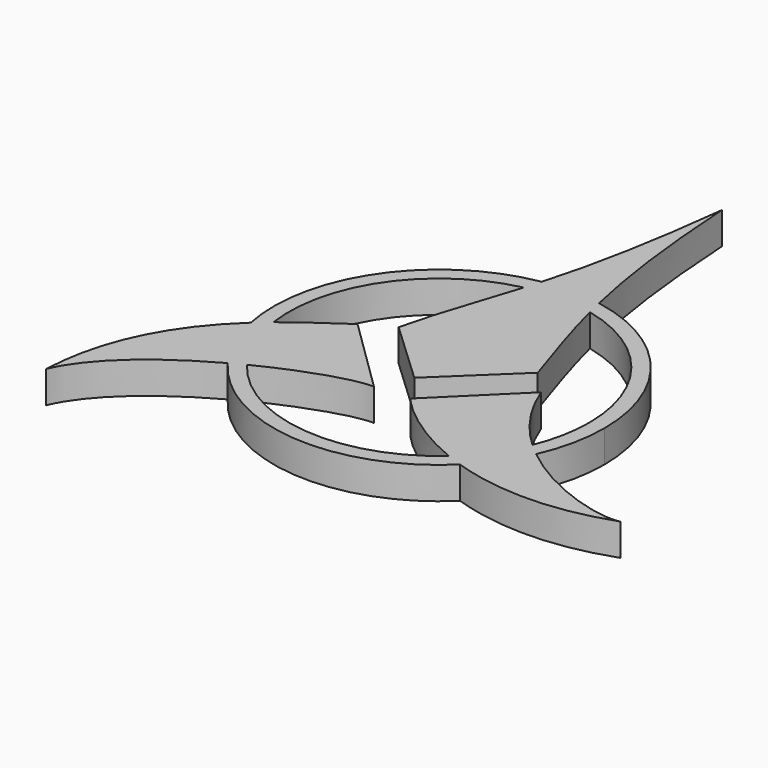
from build123d import *

# Parameters (mm, degrees)
F1_DEPTH = 3
F2_SCALE = 2


with BuildPart() as f1:
    # F0 (on Top) → F1 (new body)
    with BuildSketch(Plane.XY):
        with BuildLine():
            ThreePointArc((-3.6484416958, 6.7781442245), (-0.540102633, 7.112214953), (2.5653010723, 6.7518778775))
            add(Edge.make_bspline(
                [(2.5653010723, 6.7518778775), (2.4405091478, 7.2488244878), (2.3189009562, 7.7553249268), (2.2005963536, 8.274148071)],
                knots=[12.4056943241, 12.4056943241, 12.4056943241, 12.4056943241, 14.1938007186, 14.1938007186, 14.1938007186, 14.1938007186], degree=3))
            ThreePointArc((2.2005963536, 8.274148071), (-0.4961751675, 8.5289851847), (-3.1961088455, 8.3101776771))
            add(Edge.make_bspline(
                [(-3.6484416958, 6.7781442245), (-3.4978066969, 7.2717610823), (-3.3469022152, 7.7808952815), (-3.1961088455, 8.3101776771)],
                knots=[14.2624266232, 14.2624266232, 14.2624266232, 14.2624266232, 16.1331987756, 16.1331987756, 16.1331987756, 16.1331987756], degree=3))
        make_face()
        with BuildLine():
            ThreePointArc((-3.1961088455, 8.3101776771), (-0.4961751675, 8.5289851847), (2.2005963536, 8.274148071))
            add(Edge.make_bspline(
                [(2.2005963536, 8.274148071), (1.2143009025, 12.5995326758), (0.4576186117, 17.781396506), (0, 25.4241656512)],
                knots=[14.1938007186, 14.1938007186, 14.1938007186, 14.1938007186, 29.1010922635, 29.1010922635, 29.1010922635, 29.1010922635], degree=3))
            add(Edge.make_bspline(
                [(-3.1961088455, 8.3101776771), (-2.0720104128, 12.2557457925), (-0.9540865302, 17.3209589741), (0, 25.4241656512)],
                knots=[16.1331987756, 16.1331987756, 16.1331987756, 16.1331987756, 30.0789846465, 30.0789846465, 30.0789846465, 30.0789846465], degree=3))
        make_face()
        with BuildLine():
            Line((-0.9757319349, -9.3994913623), (5.582395941, -3.136479063))
            add(Edge.make_bspline(
                [(5.582395941, -3.136479063), (4.4501346343, 0.3162188108), (3.4310943356, 3.3041145), (2.5653010723, 6.7518778775)],
                knots=[0, 0, 0, 0, 12.4056943241, 12.4056943241, 12.4056943241, 12.4056943241], degree=3))
            ThreePointArc((2.5653010723, 6.7518778775), (-0.540102633, 7.112214953), (-3.6484416958, 6.7781442245))
            add(Edge.make_bspline(
                [(-6.8780463189, -3.8578731474), (-5.9296063176, 0.1535622041), (-4.796855529, 3.0148990823), (-3.6484416958, 6.7781442245)],
                knots=[0, 0, 0, 0, 14.2624266232, 14.2624266232, 14.2624266232, 14.2624266232], degree=3))
            Line((-6.8780463189, -3.8578731474), (-0.9757319349, -9.3994913623))
        make_face()
        with BuildLine():
            ThreePointArc((8.7334032679, -17.4966593213), (10.874330072, -15.112659319), (12.4205479871, -12.3061964651))
            add(Edge.make_bspline(
                [(7.7123986557, -5.3926892579), (8.770971261, -8.2077255601), (10.474686648, -10.4956895969), (12.4205479871, -12.3061964651)],
                knots=[0, 0, 0, 0, 6.2582268085, 6.2582268085, 6.2582268085, 6.2582268085], degree=3))
            Line((7.7123986557, -5.3926892579), (0.8955727099, -12.1167693287))
            add(Edge.make_bspline(
                [(8.7334032679, -17.4966593213), (3.9228667252, -15.5429771562), (1.0275686945, -12.5264607926), (0.8955727099, -12.1167693287)],
                knots=[11.5370076431, 11.5370076431, 11.5370076431, 11.5370076431, 24.8138712945, 24.8138712945, 24.8138712945, 24.8138712945], degree=3))
        make_face()
        with BuildLine():
            add(Edge.make_bspline(
                [(-9.5383450389, -5.3463163786), (-10.49262934, -6.0986866638), (-12.424326651, -7.2302096902), (-14.5301480871, -8.9681731566)],
                knots=[0, 0, 0, 0, 8.6245688787, 8.6245688787, 8.6245688787, 8.6245688787], degree=3))
            ThreePointArc((-14.5301480871, -8.9681731566), (-13.5897762425, -12.3786219909), (-11.8286564013, -15.4468327663))
            add(Edge.make_bspline(
                [(-2.396908123, -12.3486341909), (-4.0760677963, -12.2746317325), (-7.8959202891, -13.4562176242), (-11.8286564013, -15.4468327663)],
                knots=[0, 0, 0, 0, 11.0804983555, 11.0804983555, 11.0804983555, 11.0804983555], degree=3))
            Line((-2.396908123, -12.3486341909), (-9.5383450389, -5.3463163786))
        make_face()
        with BuildLine():
            ThreePointArc((-13.0971573758, -16.115640243), (-14.7653401615, -13.2317871414), (-15.7783337815, -10.05794303))
            add(Edge.make_bspline(
                [(-15.7783337815, -10.05794303), (-19.1516330423, -13.1800399874), (-22.5675085561, -17.9145012857), (-22.8937584907, -25.1475721598)],
                knots=[10.3095432401, 10.3095432401, 10.3095432401, 10.3095432401, 23.8842374586, 23.8842374586, 23.8842374586, 23.8842374586], degree=3))
            add(Edge.make_bspline(
                [(-13.0971573758, -16.115640243), (-17.3196146767, -18.4334452494), (-21.4212001528, -21.6282024638), (-22.8937584907, -25.1475721598)],
                knots=[12.270524405, 12.270524405, 12.270524405, 12.270524405, 24.1647199058, 24.1647199058, 24.1647199058, 24.1647199058], degree=3))
        make_face()
        with BuildLine():
            add(Edge.make_bspline(
                [(13.5447066819, -13.280008659), (18.0282893985, -16.8976229036), (23.3280453307, -18.2156300712), (25.0558890402, -17.7742708474)],
                knots=[7.4385845728, 7.4385845728, 7.4385845728, 7.4385845728, 21.309627434, 21.309627434, 21.309627434, 21.309627434], degree=3))
            ThreePointArc((13.5447066819, -13.280008659), (12.1098171156, -15.8191454606), (10.2244394305, -18.0443364074))
            add(Edge.make_bspline(
                [(25.0558890402, -17.7742708474), (19.2855148917, -19.8245200458), (14.2128845416, -19.3571511333), (10.2244394305, -18.0443364074)],
                knots=[0, 0, 0, 0, 10.216777361, 10.216777361, 10.216777361, 10.216777361], degree=3))
        make_face()
        with BuildLine():
            ThreePointArc((-11.8286564013, -15.4468327663), (-13.5897762425, -12.3786219909), (-14.5301480871, -8.9681731566))
            add(Edge.make_bspline(
                [(-14.5301480871, -8.9681731566), (-14.9415605507, -9.3077175354), (-15.3596191736, -9.6704091938), (-15.7783337815, -10.05794303)],
                knots=[8.6245688787, 8.6245688787, 8.6245688787, 8.6245688787, 10.3095432401, 10.3095432401, 10.3095432401, 10.3095432401], degree=3))
            ThreePointArc((-15.7783337815, -10.05794303), (-14.7653401615, -13.2317871414), (-13.0971573758, -16.115640243))
            add(Edge.make_bspline(
                [(-11.8286564013, -15.4468327663), (-12.251025348, -15.6606213341), (-12.6746963375, -15.8837415547), (-13.0971573758, -16.115640243)],
                knots=[11.0804983555, 11.0804983555, 11.0804983555, 11.0804983555, 12.270524405, 12.270524405, 12.270524405, 12.270524405], degree=3))
        make_face()
        with BuildLine():
            add(Edge.make_bspline(
                [(12.4205479871, -12.3061964651), (12.7875549062, -12.6476743158), (13.1631757671, -12.972167417), (13.5447066819, -13.280008659)],
                knots=[6.2582268085, 6.2582268085, 6.2582268085, 6.2582268085, 7.4385845728, 7.4385845728, 7.4385845728, 7.4385845728], degree=3))
            ThreePointArc((12.4205479871, -12.3061964651), (10.874330072, -15.112659319), (8.7334032679, -17.4966593213))
            add(Edge.make_bspline(
                [(10.2244394305, -18.0443364074), (9.7090454048, -17.8746921356), (9.2117553986, -17.6909303799), (8.7334032679, -17.4966593213)],
                knots=[10.216777361, 10.216777361, 10.216777361, 10.216777361, 11.5370076431, 11.5370076431, 11.5370076431, 11.5370076431], degree=3))
            ThreePointArc((10.2244394305, -18.0443364074), (12.1098171156, -15.8191454606), (13.5447066819, -13.280008659))
        make_face()
        with BuildLine():
            add(Edge.make_bspline(
                [(2.5653010723, 6.7518778775), (2.4405091478, 7.2488244878), (2.3189009562, 7.7553249268), (2.2005963536, 8.274148071)],
                knots=[12.4056943241, 12.4056943241, 12.4056943241, 12.4056943241, 14.1938007186, 14.1938007186, 14.1938007186, 14.1938007186], degree=3))
            ThreePointArc((2.5653010723, 6.7518778775), (10.4146880315, 1.7999595127), (13.4746808178, -6.9619361311))
            ThreePointArc((13.4746808178, -6.9619361311), (13.2086330433, -9.6855511251), (12.4205479871, -12.3061964651))
            add(Edge.make_bspline(
                [(12.4205479871, -12.3061964651), (12.7875549062, -12.6476743158), (13.1631757671, -12.972167417), (13.5447066819, -13.280008659)],
                knots=[6.2582268085, 6.2582268085, 6.2582268085, 6.2582268085, 7.4385845728, 7.4385845728, 7.4385845728, 7.4385845728], degree=3))
            ThreePointArc((13.5447066819, -13.280008659), (14.551187834, -10.1919652364), (14.8916705331, -6.9619361311))
            ThreePointArc((14.8916705331, -6.9619361311), (11.3032999692, 2.9527200107), (2.2005963536, 8.274148071))
        make_face()
        with BuildLine():
            ThreePointArc((-14.5301480871, -8.9681731566), (-12.1780939635, 1.0395420648), (-3.6484416958, 6.7781442245))
            add(Edge.make_bspline(
                [(-3.6484416958, 6.7781442245), (-3.4978066969, 7.2717610823), (-3.3469022152, 7.7808952815), (-3.1961088455, 8.3101776771)],
                knots=[14.2624266232, 14.2624266232, 14.2624266232, 14.2624266232, 16.1331987756, 16.1331987756, 16.1331987756, 16.1331987756], degree=3))
            ThreePointArc((-3.1961088455, 8.3101776771), (-13.3799265264, 1.7926335872), (-15.7783337815, -10.05794303))
            add(Edge.make_bspline(
                [(-14.5301480871, -8.9681731566), (-14.9415605507, -9.3077175354), (-15.3596191736, -9.6704091938), (-15.7783337815, -10.05794303)],
                knots=[8.6245688787, 8.6245688787, 8.6245688787, 8.6245688787, 10.3095432401, 10.3095432401, 10.3095432401, 10.3095432401], degree=3))
        make_face()
        with BuildLine():
            add(Edge.make_bspline(
                [(10.2244394305, -18.0443364074), (9.7090454048, -17.8746921356), (9.2117553986, -17.6909303799), (8.7334032679, -17.4966593213)],
                knots=[10.216777361, 10.216777361, 10.216777361, 10.216777361, 11.5370076431, 11.5370076431, 11.5370076431, 11.5370076431], degree=3))
            ThreePointArc((8.7334032679, -17.4966593213), (-1.9957368203, -20.9667945394), (-11.8286564013, -15.4468327663))
            add(Edge.make_bspline(
                [(-11.8286564013, -15.4468327663), (-12.251025348, -15.6606213341), (-12.6746963375, -15.8837415547), (-13.0971573758, -16.115640243)],
                knots=[11.0804983555, 11.0804983555, 11.0804983555, 11.0804983555, 12.270524405, 12.270524405, 12.270524405, 12.270524405], degree=3))
            ThreePointArc((-13.0971573758, -16.115640243), (-1.8763651663, -22.4004982274), (10.2244394305, -18.0443364074))
        make_face()
    extrude(amount=F1_DEPTH)


with BuildPart() as f1_1:
    # F2: moved
    add(f1.part.scale(F2_SCALE).moved(Location((0.9757319349, 9.3994913623, 0))))


solid = f1_1.part
